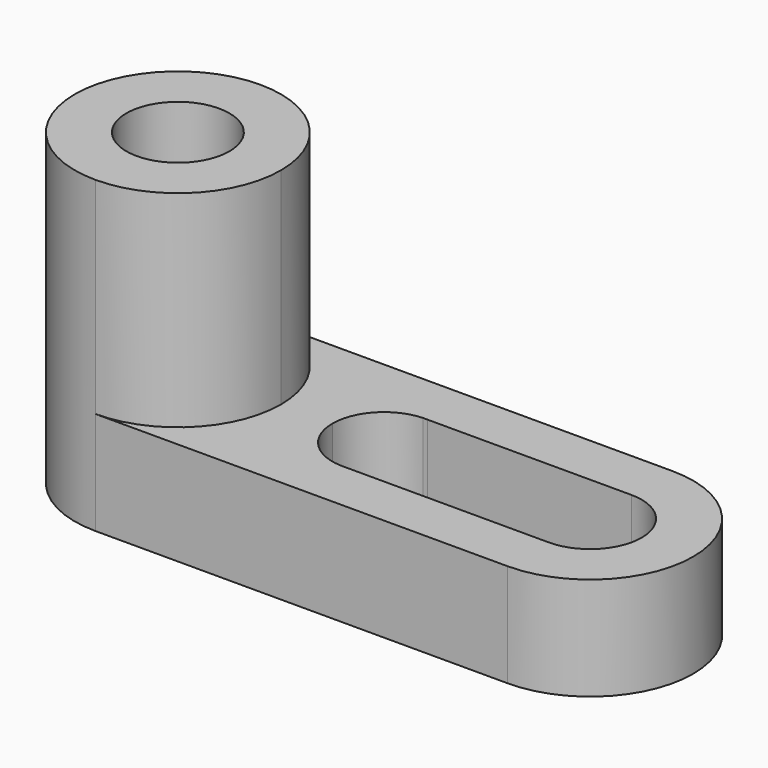
from build123d import *

# Parameters (mm, degrees)
F0_R     = 6.35
F1_DEPTH = 12.7
F2_R     = 6.35
F3_DEPTH = 25.4


with BuildPart() as f1:
    # F0 (on Top) → F1 (new body)
    with BuildSketch(Plane.XY):
        with BuildLine():
            ThreePointArc((0, -12.7), (8.980256, -8.980256), (12.7, 0))
            ThreePointArc((12.7, 0), (8.980256, 8.980256), (0, 12.7))
            ThreePointArc((0, 12.7), (-12.7, 0), (0, -12.7))
        make_face()
        Circle(F0_R, mode=Mode.SUBTRACT)
        with BuildLine():
            ThreePointArc((0, 12.7), (8.980256, 8.980256), (12.7, 0))
            ThreePointArc((12.7, 0), (8.980256, -8.980256), (0, -12.7))
            Line((0, -12.7), (50.8, -12.7))
            ThreePointArc((50.8, -12.7), (63.5, 0), (50.8, 12.7))
            Line((50.8, 12.7), (0, 12.7))
        make_face()
        with BuildLine():
            ThreePointArc((25.136581, -6.344534), (20.817685, -4.396009), (19.05, 0))
            ThreePointArc((19.05, 0), (20.819649, 4.398055), (25.142248, 6.344767))
            ThreePointArc((25.142248, 6.344767), (25.398705, 6.35), (25.655163, 6.344871))
            Line((25.655163, 6.344871), (50.798705, 6.35))
            ThreePointArc((50.798705, 6.35), (57.15, -2.9e-05), (50.798647, -6.35))
            Line((50.798647, -6.35), (25.660717, -6.344646))
            ThreePointArc((25.660717, -6.344646), (25.398647, -6.35), (25.136581, -6.344534))
        make_face(mode=Mode.SUBTRACT)
    extrude(amount=F1_DEPTH)

    # F2 (on face) → F3 (join)
    with BuildSketch(Plane.XY.offset(12.7)):
        with BuildLine():
            ThreePointArc((0, -12.7), (8.980256, -8.980256), (12.7, 0))
            ThreePointArc((12.7, 0), (8.980256, 8.980256), (0, 12.7))
            ThreePointArc((0, 12.7), (-12.7, 0), (0, -12.7))
        make_face()
        Circle(F2_R, mode=Mode.SUBTRACT)
    extrude(amount=F3_DEPTH)


solid = f1.part
